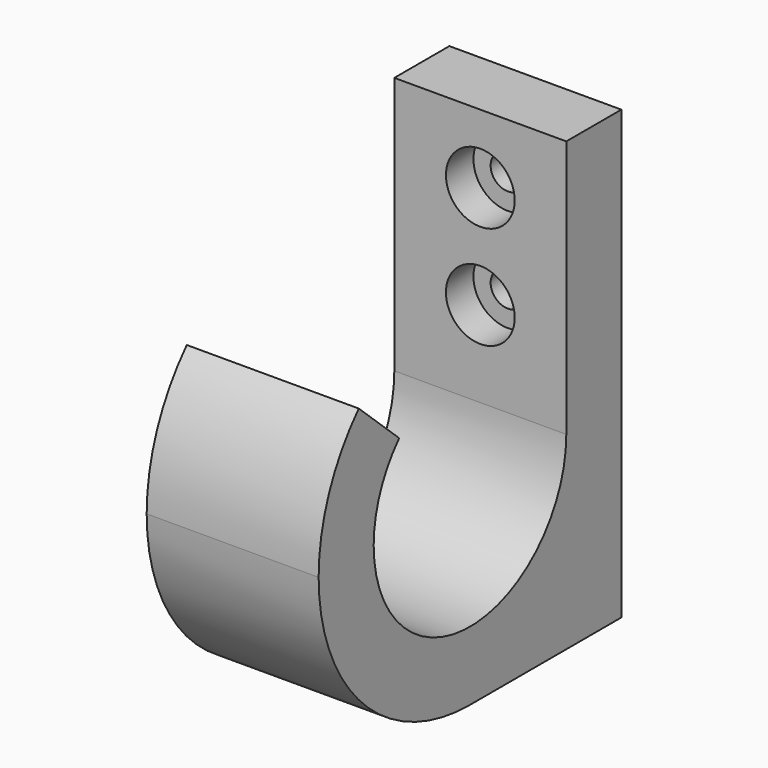
from build123d import *

# Parameters (mm, degrees)
F1_DEPTH = 12.7
F2_R     = 2.54
F3_DEPTH = 10.161
F2_R_2   = 5.08
F4_DEPTH = 5.08


with BuildPart() as f1:
    # F0 (on Right) → F1 (new body, symmetric)
    with BuildSketch(Plane.YZ):
        with BuildLine():
            Line((0, 38.1), (0, 0))
            ThreePointArc((0, 0), (-17.78, -17.78), (-35.56, 0))
            ThreePointArc((-35.56, 0), (-34.340603, 6.471077), (-30.849669, 12.054549))
            Line((-30.849669, 12.054549), (-38.318051, 18.942863))
            ThreePointArc((-38.318051, 18.942863), (-43.803804, 10.168836), (-45.72, 0))
            ThreePointArc((-45.72, 0), (-37.536563, -19.756563), (-17.78, -27.94))
            ThreePointArc((-17.78, -27.94), (1.976563, -19.756563), (10.16, 0))
            Line((10.16, 0), (10.16, 38.1))
            Line((10.16, 38.1), (0, 38.1))
        make_face()
        with BuildLine():
            Line((10.16, -27.94), (10.16, 0))
            ThreePointArc((10.16, 0), (1.976563, -19.756563), (-17.78, -27.94))
            Line((-17.78, -27.94), (10.16, -27.94))
        make_face()
    extrude(amount=F1_DEPTH, both=True)

    # F2 (on face) → F3 (cut, through all)
    with BuildSketch(Plane.XZ):
        with Locations((0, 27.94)):
            Circle(F2_R)
        with Locations((0, 12.7)):
            Circle(F2_R)
    extrude(amount=-F3_DEPTH, mode=Mode.SUBTRACT)

    # F2 (on face) → F4 (cut)
    with BuildSketch(Plane.XZ):
        with Locations((0, 27.94)):
            Circle(F2_R_2)
        with Locations((0, 27.94)):
            Circle(F2_R, mode=Mode.SUBTRACT)
        with Locations((0, 12.7)):
            Circle(F2_R_2)
        with Locations((0, 12.7)):
            Circle(F2_R, mode=Mode.SUBTRACT)
    extrude(amount=-F4_DEPTH, mode=Mode.SUBTRACT)


solid = f1.part
